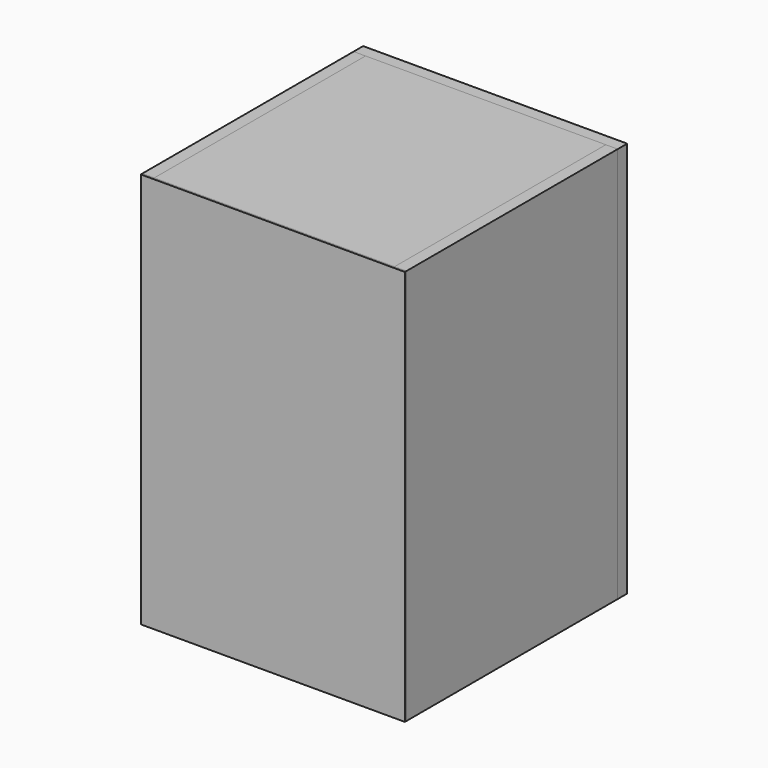
from build123d import *

# Parameters (mm, degrees)
F0_W      = 200
F0_H      = 300
F1_DEPTH  = 1.5
F2_W      = 9
F2_H      = 300
F3_DEPTH  = 200
F2_W_2    = 2.7795433998
F2_H_2    = 6.9488584995
F5_DEPTH  = 12
F7_DEPTH  = 182
F8_W      = 38.4938195348
F8_H      = 25.8426551498
F9_DEPTH  = 5
F10_W     = 200
F10_H     = 9
F11_DEPTH = 182
F12_W     = 200
F12_H     = 9
F13_DEPTH = 182
F14_W     = 200
F14_H     = 300
F15_DEPTH = 9
F16_W     = 200
F16_H     = 300
F17_DEPTH = 9
F18_R     = 46.0903835616
F19_DEPTH = 9


with BuildPart() as f1:
    # F0 (on Front) → F1 (new body)
    with BuildSketch(Plane.XZ):
        with Locations((100, 150)):
            Rectangle(F0_W, F0_H)
    extrude(amount=F1_DEPTH)


with BuildPart() as f3:
    # F2 (on face) → F3 (new body)
    with BuildSketch(Plane(origin=(0, 0, 0), x_dir=(-1, 0, 0), z_dir=(0, 1, 0))):
        with Locations((-4.5, 150)):
            Rectangle(F2_W, F2_H)
    extrude(amount=F3_DEPTH)


with BuildPart() as f3b:
    # F2 (on face) → F3, piece 2 (new body)
    with BuildSketch(Plane(origin=(0, 0, 0), x_dir=(-1, 0, 0), z_dir=(0, 1, 0))):
        with Locations((-68.5956031084, 195.5856233835)):
            Rectangle(F2_W_2, F2_H_2)
    extrude(amount=F3_DEPTH)


with BuildPart() as f5:
    # F4 (on face) → F5 (new body)
    with BuildSketch(Plane.YZ.offset(9)):
        Polygon((38.8471707702, 72.3829492927), (0, 98.8184660673), (0, 45.9474399686), align=None)
    extrude(amount=F5_DEPTH)


with BuildPart() as f7:
    # F6 (on face) → F7 (new body)
    with BuildSketch(Plane.YZ.offset(9)):
        Polygon((0, 98.8005093836), (38.8582931021, 72.3834415504), (43.4840800956, 79.1877616951), (4.6257869935, 105.6048295283), align=None)
    extrude(amount=F7_DEPTH)


with BuildPart() as f9:
    # F8 (on face) → F9 (new body)
    with BuildSketch(Plane(origin=(0, 50.5627411744, 74.3754692613), x_dir=(1, 0, 0), z_dir=(0, 0.5622143833, 0.8269915279))):
        with Locations((105.8635227382, -21.4808603388)):
            Rectangle(F8_W, F8_H)
    extrude(amount=F9_DEPTH)


with BuildPart() as f11:
    # F10 (on face) → F11 (new body)
    with BuildSketch(Plane.YZ.offset(9)):
        with Locations((100, 295.5)):
            Rectangle(F10_W, F10_H)
    extrude(amount=F11_DEPTH)


with BuildPart() as f13:
    # F12 (on face) → F13 (new body)
    with BuildSketch(Plane.YZ.offset(9)):
        with Locations((100, 4.5)):
            Rectangle(F12_W, F12_H)
    extrude(amount=F13_DEPTH)


with BuildPart() as f15:
    # F14 (on face) → F15 (new body)
    with BuildSketch(Plane.YZ.offset(191)):
        with Locations((100, 150)):
            Rectangle(F14_W, F14_H)
    extrude(amount=F15_DEPTH)


with BuildPart() as f17:
    # F16 (on face) → F17 (new body)
    with BuildSketch(Plane(origin=(0, 200, 0), x_dir=(-1, 0, 0), z_dir=(0, 1, 0))):
        with Locations((-100, 150)):
            Rectangle(F16_W, F16_H)
    extrude(amount=F17_DEPTH)

    # F18 (on face) → F19 (cut)
    with BuildSketch(Plane(origin=(0, 209, 0), x_dir=(-1, 0, 0), z_dir=(0, 1, 0))):
        with Locations((-116.2157654762, 101.7390489578)):
            Circle(F18_R)
    extrude(amount=-F19_DEPTH, mode=Mode.SUBTRACT)


solid = Compound([f1.part, f3.part, f3b.part, f5.part, f7.part, f9.part, f11.part, f13.part, f15.part, f17.part])
